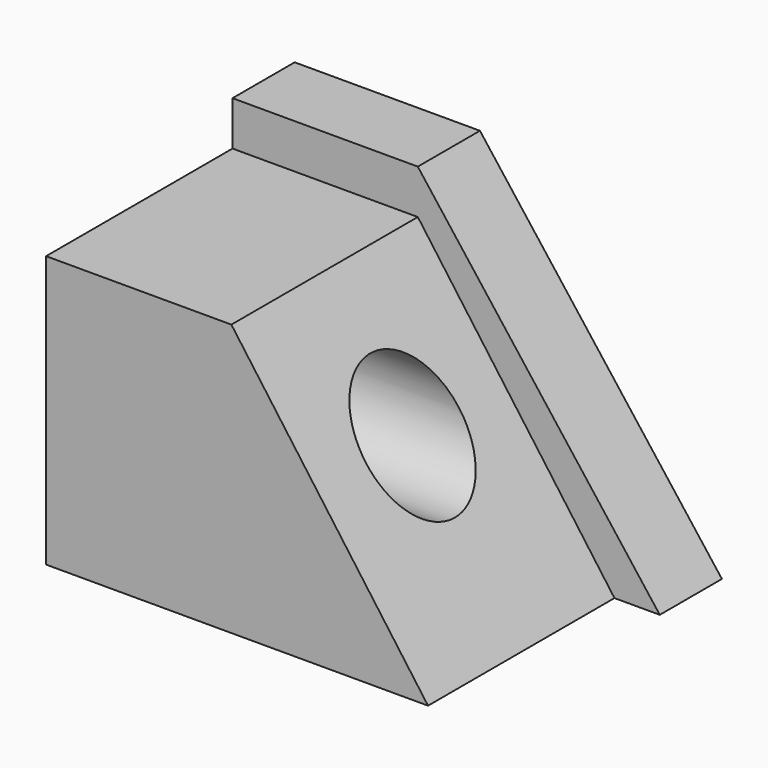
from build123d import *

# Parameters (mm, degrees)
F1_DEPTH      = 50.8
F1_DEPTH_BACK = 25.4
F2_W          = 60.5916632339
F2_H          = 14.503326267
F3_DEPTH      = 25.4
F4_R          = 19.1325544218
F5_DEPTH      = 90.678
F5_DEPTH_BACK = 117.602


with BuildPart() as f1:
    # F0 (on Front) → F1 (new body, two sides)
    with BuildSketch(Plane.XZ) as f1_sk:
        Polygon((-52.0508177578, 54.5486100018), (-52.0508177578, -34.2439599335), (8.5408454761, -34.2439599335), (72.8483721614, -34.2439599335), (8.5408454761, 54.5486100018), align=None)
    extrude(amount=F1_DEPTH)
    extrude(f1_sk.sketch, amount=-F1_DEPTH_BACK)

    # F4 (on Right) → F5 (cut, two sides)
    with BuildSketch(Plane.YZ) as f5_sk:
        with Locations((-11.7638064548, 15.8730819821)):
            Circle(F4_R)
    extrude(amount=F5_DEPTH, mode=Mode.SUBTRACT)
    extrude(f5_sk.sketch, amount=-F5_DEPTH_BACK, mode=Mode.SUBTRACT)


with BuildPart() as f3:
    # F2 (on face) → F3 (new body)
    with BuildSketch(Plane(origin=(0, 25.4, 0), x_dir=(-1, 0, 0), z_dir=(0, 1, 0))):
        with Locations((21.7549861409, 61.8002731353)):
            Rectangle(F2_W, F2_H)
        Polygon((-72.8483721614, -34.2439599335), (-8.5408454761, 54.5486100018), (-8.5408454761, 69.0519362688), (-87.6645371318, -34.2439599335), align=None)
    extrude(amount=F3_DEPTH)


solid = Compound([f1.part, f3.part])
